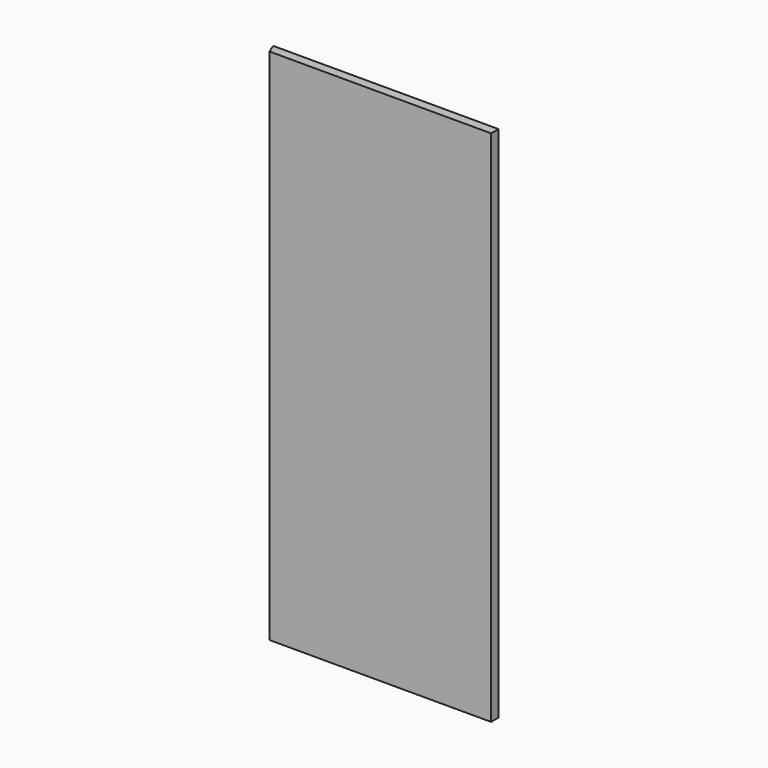
from build123d import *

# Parameters (mm, degrees)
F0_W     = 384.175
F0_H     = 885.825
F1_DEPTH = 15.875
F2_SIZE2 = 5.260512
F2_SIZE  = 12.7


with BuildPart() as f1:
    # F0 (on Front) → F1 (new body)
    with BuildSketch(Plane.XZ):
        with Locations((192.0875, 442.9125)):
            Rectangle(F0_W, F0_H)
    extrude(amount=-F1_DEPTH)

    # F2
    f2_edges = [f1.edges().sort_by_distance(p)[0] for p in [
        (0, 0, 442.9125),
    ]]
    chamfer(f2_edges, length=F2_SIZE, length2=F2_SIZE2)


solid = f1.part
